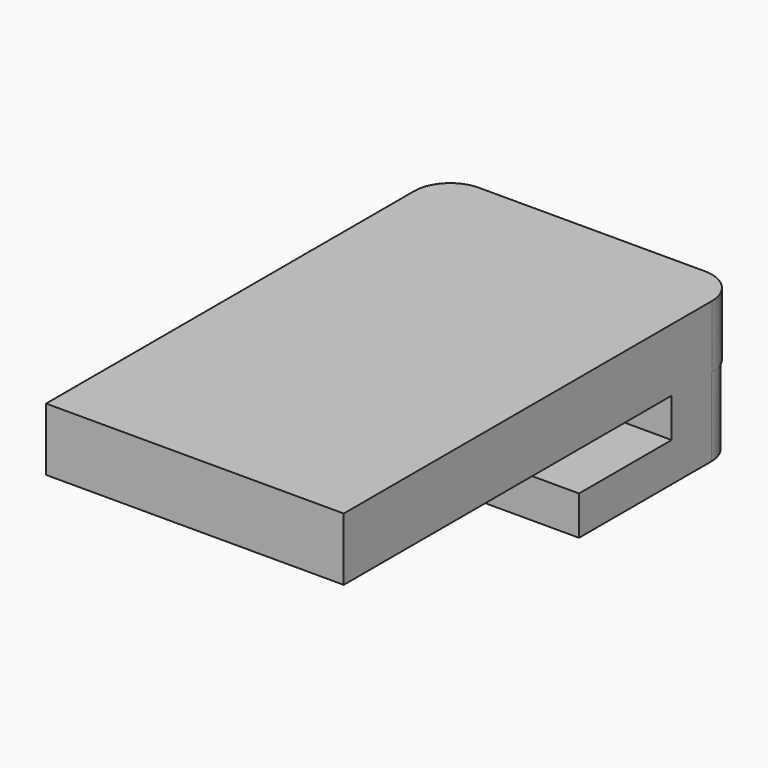
from build123d import *

# Parameters (mm, degrees)
F1_DEPTH = 9.652
F4_DEPTH = 45.72
F5_R     = 5.08
F6_R     = 5.518892
F7_W     = 10.16
F7_H     = 3
F8_DEPTH = 50.8


with BuildPart() as f1:
    # F0 (on Top) → F1 (new body)
    with BuildSketch(Plane.XY):
        Polygon((0, 13.647766), (0, 0), (0, -62.552234), (45.72, -62.552234), (45.72, 13.647766), align=None)
    extrude(amount=F1_DEPTH)

    # F3 (on Right) → F4 (join)
    with BuildSketch(Plane.YZ):
        Polygon((13.10063, -12), (13.10063, 0), (0.40063, 0), (0.40063, -6), (-17.37937, -6), (-17.37937, -12), align=None)
    extrude(amount=F4_DEPTH)

    # F5
    f5_edges = [f1.edges().sort_by_distance(p)[0] for p in [
        (45.72, 13.10063, -6),
        (0, 13.10063, -6),
    ]]
    fillet(f5_edges, radius=F5_R)

    # F6
    f6_edges = [f1.edges().sort_by_distance(p)[0] for p in [
        (45.72, 13.647766, 4.826),
        (0, 13.647766, 4.826),
    ]]
    fillet(f6_edges, radius=F6_R)

    # F7 (on face) → F8 (cut)
    with BuildSketch(Plane(origin=(0, 13.647766, 0), x_dir=(-1, 0, 0), z_dir=(0, 1, 0))):
        with Locations((-30.156892, 4.777829)):
            Rectangle(F7_W, F7_H)
        with Locations((-14.916892, 4.777829)):
            Rectangle(F7_W, F7_H)
    extrude(amount=-F8_DEPTH, mode=Mode.SUBTRACT)


solid = f1.part
